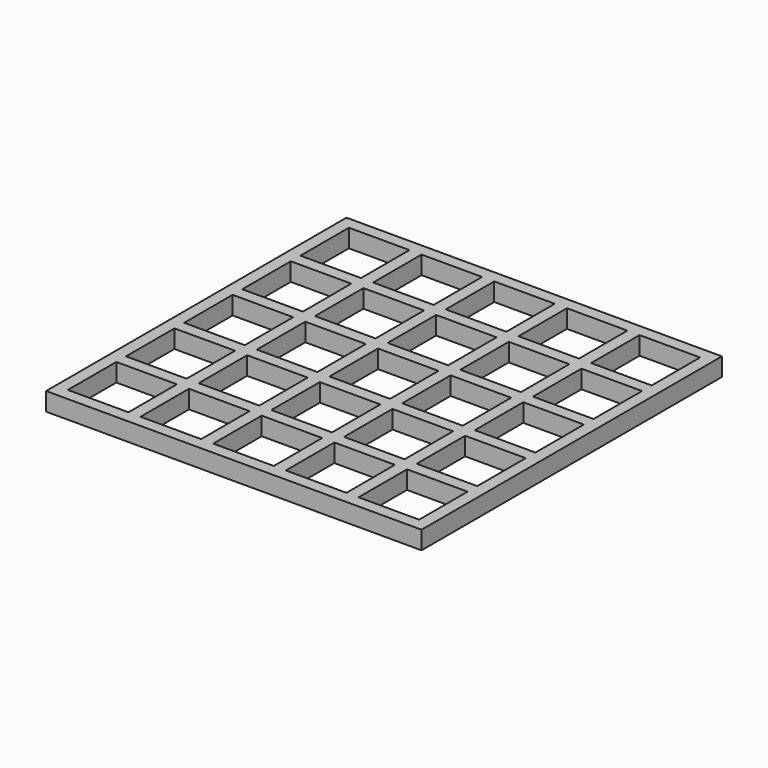
from build123d import *

# Parameters (mm, degrees)
BOX_W         = 10
BOX_H         = 10
BOX_DEPTH     = 10
ARRAY_X_COUNT = 5
ARRAY_X_PITCH = 12
ARRAY_Y_COUNT = 5
ARRAY_Y_PITCH = 12
BOX001_W      = 62
BOX001_H      = 62
BOX001_DEPTH  = 3


with BuildPart() as array:
    # Box → Box (new body)
    with BuildSketch(Plane.XY):
        with Locations((5, 5)):
            Rectangle(BOX_W, BOX_H)
    extrude(amount=BOX_DEPTH)

    # Array X: Array ×5


with BuildPart() as array_1:
    add(array.part)
    with Locations(*[(i * ARRAY_X_PITCH, 0, 0) for i in range(1, ARRAY_X_COUNT)]):
        add(array.part)

    # Array Y: Array ×5


with BuildPart() as array_2:
    add(array_1.part)
    with Locations(*[(0, i * ARRAY_Y_PITCH, 0) for i in range(1, ARRAY_Y_COUNT)]):
        add(array_1.part)


with BuildPart() as cut:
    # Box001 → Box001 (new body)
    with BuildSketch(Plane(origin=(-2, -2, 3), x_dir=(1, 0, 0), z_dir=(0, 0, 1))):
        with Locations((31, 31)):
            Rectangle(BOX001_W, BOX001_H)
    extrude(amount=BOX001_DEPTH)

    # Cut: cut Array
    add(array_2.part, mode=Mode.SUBTRACT)


solid = cut.part
